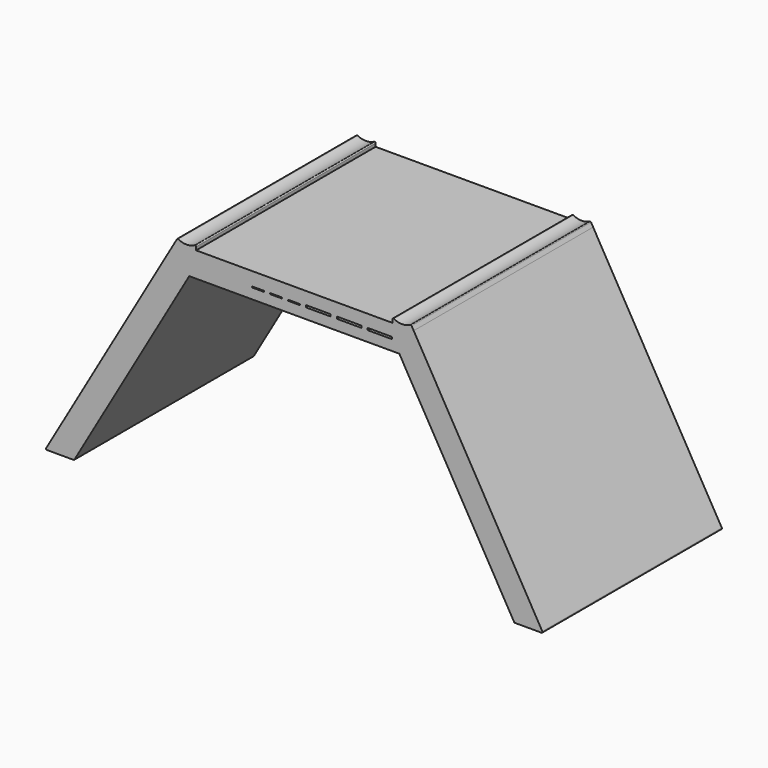
from build123d import *

# Parameters (mm, degrees)
F1_DEPTH = 228.6
F2_R     = 1
F3_W     = 25
F3_H     = 2.1
F4_DEPTH = 20
F5_W     = 12
F5_H     = 1
F6_DEPTH = 8


with BuildPart() as f1:
    # F0 (on Front) → F1 (new body)
    with BuildSketch(Plane.XZ):
        Polygon((183.579294, 53.486018), (83.579294, 53.486018), (-16.420706, 53.486018), (-38.13115, 53.486018), (-170.113422, -175.113982), (-140.784028, -175.113982), (-23.466453, 28.086018), (83.579294, 28.086018), (190.625042, 28.086018), (307.942616, -175.113982), (337.27201, -175.113982), (205.289739, 53.486018), align=None)
        with BuildLine():
            Line((-38.13115, 53.486018), (-16.420706, 53.486018))
            Line((-16.420706, 53.486018), (-16.420706, 58.486018))
            ThreePointArc((-16.420706, 58.486018), (-25.888059, 55.488385), (-35.470706, 58.094042))
            Line((-35.470706, 58.094042), (-38.13115, 53.486018))
        make_face()
        with BuildLine():
            Line((183.579294, 58.486018), (183.579294, 53.486018))
            Line((183.579294, 53.486018), (205.289739, 53.486018))
            Line((205.289739, 53.486018), (202.629294, 58.094042))
            ThreePointArc((202.629294, 58.094042), (193.046647, 55.488385), (183.579294, 58.486018))
        make_face()
    extrude(amount=F1_DEPTH)

    # F2
    f2_edges = [f1.edges().sort_by_distance(p)[0] for p in [
        (-35.470706, -114.3, 58.094042),
        (-16.420706, -114.3, 58.486018),
        (183.579294, -114.3, 58.486018),
        (202.629294, -114.3, 58.094042),
        (-170.113422, -114.3, -175.113982),
        (-140.784028, -114.3, -175.113982),
        (307.942616, -114.3, -175.113982),
        (337.27201, -114.3, -175.113982),
    ]]
    fillet(f2_edges, radius=F2_R)

    # F3 (on face) → F4 (cut)
    with BuildSketch(Plane.XZ.offset(228.6)):
        with Locations((170.792693, 39.736018)):
            Rectangle(F3_W, F3_H)
        with Locations((139.442693, 39.736018)):
            Rectangle(F3_W, F3_H)
        with Locations((108.092693, 39.736018)):
            Rectangle(F3_W, F3_H)
    extrude(amount=-F4_DEPTH, mode=Mode.SUBTRACT)

    # F5 (on face) → F6 (cut)
    with BuildSketch(Plane.XZ.offset(228.6)):
        with Locations((83.242693, 39.186018)):
            Rectangle(F5_W, F5_H)
        with Locations((64.892693, 39.186018)):
            Rectangle(F5_W, F5_H)
        with Locations((46.542693, 39.186018)):
            Rectangle(F5_W, F5_H)
    extrude(amount=-F6_DEPTH, mode=Mode.SUBTRACT)


solid = f1.part
